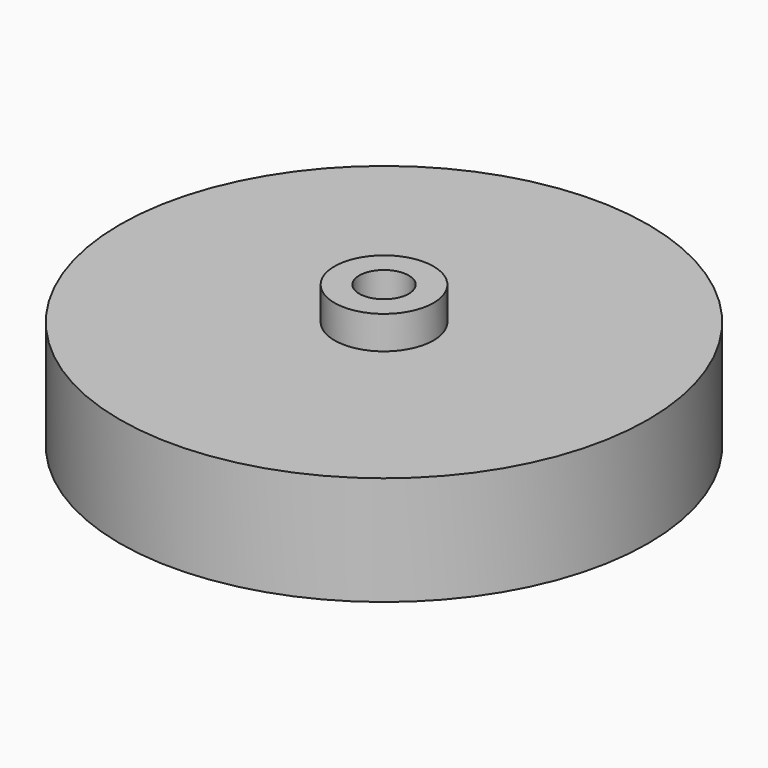
from build123d import *

# Parameters (mm, degrees)
F0_R     = 16
F1_DEPTH = 6.6
F2_R     = 3
F3_DEPTH = 2
F4_R     = 1.5
F5_DEPTH = 8.601
F6_R     = 12
F7_DEPTH = 6


with BuildPart() as f1:
    # F0 (on Top) → F1 (new body)
    with BuildSketch(Plane.XY):
        Circle(F0_R)
    extrude(amount=F1_DEPTH)

    # F2 (on face) → F3 (join)
    with BuildSketch(Plane.XY.offset(6.6)):
        Circle(F2_R)
    extrude(amount=F3_DEPTH)

    # F4 (on face) → F5 (cut, through all)
    with BuildSketch(Plane.XY.offset(8.6)):
        Circle(F4_R)
    extrude(amount=-F5_DEPTH, mode=Mode.SUBTRACT)

    # F6 (on face) → F7 (cut)
    with BuildSketch(Plane(origin=(0, 0, 0), x_dir=(1, 0, 0), z_dir=(0, 0, -1))):
        Circle(F6_R)
    extrude(amount=-F7_DEPTH, mode=Mode.SUBTRACT)


solid = f1.part
